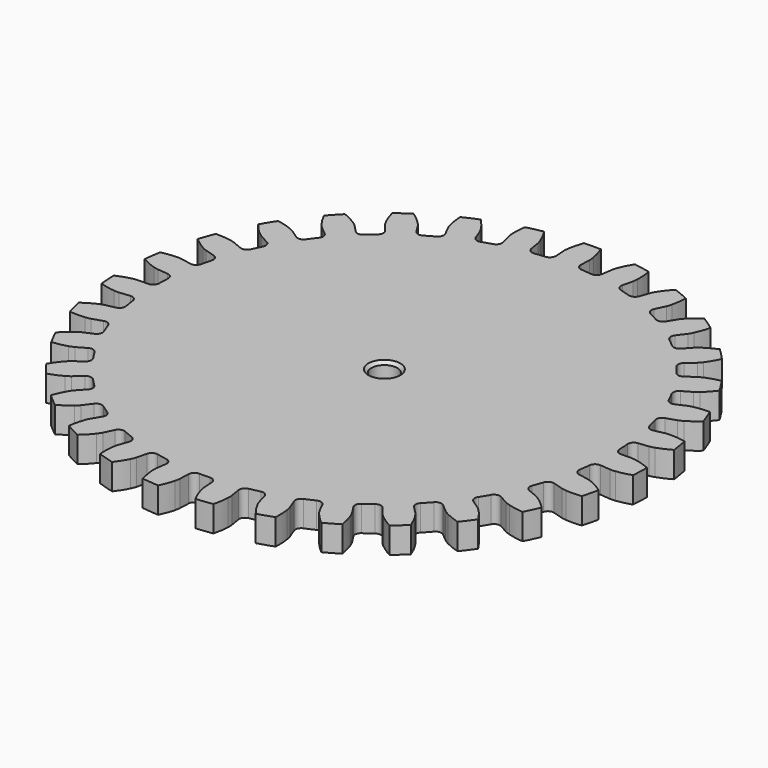
from build123d import *

# Parameters (mm, degrees)
PAD004_DEPTH            = 8.5
PAD005_DEPTH            = 8.5
SKETCH003_R             = 4.25
POCKET002_DEPTH         = 17.001
CHAMFER034_SIZE         = 1
CHAMFER039_SIZE         = 1
BODY002_PLACEMENT_ANGLE = 9.4


with BuildPart() as part:
    # InvoluteGear004 → Pad004 (new body)
    with BuildSketch(Plane.XY):
        with BuildLine():
            Line((76.650392, -4.025149), (80.096903, -4.204234))
            add(Edge.make_bspline(
                [(80.096903, -4.204234), (80.280207, -4.206292), (80.834512, -4.197297), (81.758681, -4.052769)],
                knots=[0, 0, 0, 0, 1, 1, 1, 1], degree=3))
            add(Edge.make_bspline(
                [(81.758681, -4.052769), (82.870647, -3.87775), (84.497646, -3.507453), (86.584037, -2.728125)],
                knots=[0, 0, 0, 0, 1, 1, 1, 1], degree=3))
            ThreePointArc((86.584037, -2.728125), (86.627007, 0), (86.584037, 2.728125))
            add(Edge.make_bspline(
                [(86.584037, 2.728125), (84.497646, 3.507453), (82.870647, 3.87775), (81.758681, 4.052769)],
                knots=[0, 0, 0, 0, 1, 1, 1, 1], degree=3))
            add(Edge.make_bspline(
                [(81.758681, 4.052769), (80.834512, 4.197297), (80.280207, 4.206292), (80.096903, 4.204234)],
                knots=[0, 0, 0, 0, 1, 1, 1, 1], degree=3))
            Line((80.096903, 4.204234), (76.650392, 4.025149))
            ThreePointArc((76.650392, 4.025149), (75.249057, 4.51101), (74.584451, 5.836942))
            ThreePointArc((74.584451, 5.836942), (74.428661, 7.568655), (74.23267, 9.29628))
            ThreePointArc((74.23267, 9.29628), (74.616764, 10.728855), (75.89161, 11.486856))
            Line((75.89161, 11.486856), (79.303621, 12.005215))
            add(Edge.make_bspline(
                [(79.303621, 12.005215), (79.483587, 12.040098), (80.024735, 12.160489), (80.900892, 12.488093)],
                knots=[0, 0, 0, 0, 1, 1, 1, 1], degree=3))
            add(Edge.make_bspline(
                [(80.900892, 12.488093), (81.954866, 12.883366), (83.47402, 13.573596), (85.360824, 14.756959)],
                knots=[0, 0, 0, 0, 1, 1, 1, 1], degree=3))
            ThreePointArc((85.360824, 14.756959), (84.853747, 17.437888), (84.262489, 20.101518))
            add(Edge.make_bspline(
                [(84.262489, 20.101518), (82.061929, 20.444906), (80.393695, 20.480111), (79.269259, 20.42771)],
                knots=[0, 0, 0, 0, 1, 1, 1, 1], degree=3))
            add(Edge.make_bspline(
                [(79.269259, 20.42771), (78.334915, 20.383246), (77.790147, 20.280476), (77.611009, 20.241561)],
                knots=[0, 0, 0, 0, 1, 1, 1, 1], degree=3))
            Line((77.611009, 20.241561), (74.271097, 19.372365))
            ThreePointArc((74.271097, 19.372365), (72.800645, 19.566193), (71.882735, 20.731199))
            ThreePointArc((71.882735, 20.731199), (71.381543, 22.396104), (70.841796, 24.048912))
            ThreePointArc((70.841796, 24.048912), (70.929652, 25.529479), (72.025817, 26.528588))
            Line((72.025817, 26.528588), (75.263639, 27.723169))
            add(Edge.make_bspline(
                [(75.263639, 27.723169), (75.4329, 27.793565), (75.938735, 28.020424), (76.731012, 28.517691)],
                knots=[0, 0, 0, 0, 1, 1, 1, 1], degree=3))
            add(Edge.make_bspline(
                [(76.731012, 28.517691), (77.683842, 29.117036), (79.032957, 30.09894), (80.642929, 31.63789)],
                knots=[0, 0, 0, 0, 1, 1, 1, 1], degree=3))
            ThreePointArc((80.642929, 31.63789), (79.606565, 34.161867), (78.491225, 36.651954))
            add(Edge.make_bspline(
                [(78.491225, 36.651954), (76.266587, 36.545343), (74.625415, 36.244014), (73.534545, 35.966338)],
                knots=[0, 0, 0, 0, 1, 1, 1, 1], degree=3))
            add(Edge.make_bspline(
                [(73.534545, 35.966338), (72.628278, 35.734702), (72.115348, 35.524375), (71.94771, 35.450196)],
                knots=[0, 0, 0, 0, 1, 1, 1, 1], degree=3))
            Line((71.94771, 35.450196), (68.851135, 33.926473))
            ThreePointArc((68.851135, 33.926473), (67.371766, 33.820334), (66.238131, 34.776718))
            ThreePointArc((66.238131, 34.776718), (65.412056, 36.306653), (64.55065, 37.816978))
            ThreePointArc((64.55065, 37.816978), (64.338672, 39.284923), (65.211279, 40.484237))
            Line((65.211279, 40.484237), (68.142355, 42.306133))
            add(Edge.make_bspline(
                [(68.142355, 42.306133), (68.29398, 42.40916), (68.743795, 42.733199), (69.419754, 43.379771)],
                knots=[0, 0, 0, 0, 1, 1, 1, 1], degree=3))
            add(Edge.make_bspline(
                [(69.419754, 43.379771), (70.232433, 44.158651), (71.356275, 45.39203), (72.623503, 47.223563)],
                knots=[0, 0, 0, 0, 1, 1, 1, 1], degree=3))
            ThreePointArc((72.623503, 47.223563), (71.10028, 49.487256), (69.506521, 51.701853))
            add(Edge.make_bspline(
                [(69.506521, 51.701853), (67.348882, 51.149609), (65.801962, 50.524082), (64.789318, 50.0325)],
                knots=[0, 0, 0, 0, 1, 1, 1, 1], degree=3))
            add(Edge.make_bspline(
                [(64.789318, 50.0325), (63.94823, 49.623176), (63.488138, 49.313902), (63.338864, 49.207496)],
                knots=[0, 0, 0, 0, 1, 1, 1, 1], degree=3))
            Line((63.338864, 49.207496), (60.612399, 47.091628))
            ThreePointArc((60.612399, 47.091628), (59.184679, 46.689866), (57.881731, 47.398474))
            ThreePointArc((57.881731, 47.398474), (56.764592, 48.730804), (55.616792, 50.036812))
            ThreePointArc((55.616792, 50.036812), (55.113658, 51.432038), (55.726983, 52.782456))
            Line((55.726983, 52.782456), (58.231315, 55.157079))
            add(Edge.make_bspline(
                [(58.231315, 55.157079), (58.359097, 55.288519), (58.734475, 55.696473), (59.266444, 56.465878)],
                knots=[0, 0, 0, 0, 1, 1, 1, 1], degree=3))
            add(Edge.make_bspline(
                [(59.266444, 56.465878), (59.9057, 57.392406), (60.75826, 58.826765), (61.630862, 60.875898)],
                knots=[0, 0, 0, 0, 1, 1, 1, 1], degree=3))
            ThreePointArc((61.630862, 60.875898), (59.683142, 62.78663), (57.676212, 64.635073))
            add(Edge.make_bspline(
                [(57.676212, 64.635073), (55.673906, 63.659804), (54.284569, 62.735689), (53.391608, 62.050326)],
                knots=[0, 0, 0, 0, 1, 1, 1, 1], degree=3))
            add(Edge.make_bspline(
                [(53.391608, 62.050326), (52.650134, 61.48007), (52.261717, 61.084511), (52.136918, 60.950236)],
                knots=[0, 0, 0, 0, 1, 1, 1, 1], degree=3))
            Line((52.136918, 60.950236), (49.892185, 58.328846))
            ThreePointArc((49.892185, 58.328846), (48.574564, 57.64791), (47.155646, 58.079731))
            ThreePointArc((47.155646, 58.079731), (45.793179, 59.15991), (44.405977, 60.208134))
            ThreePointArc((44.405977, 60.208134), (43.632285, 61.473519), (43.961218, 62.919756))
            Line((43.961218, 62.919756), (45.936278, 65.749888))
            add(Edge.make_bspline(
                [(45.936278, 65.749888), (46.034986, 65.90436), (46.32056, 66.379525), (46.686759, 67.240266)],
                knots=[0, 0, 0, 0, 1, 1, 1, 1], degree=3))
            add(Edge.make_bspline(
                [(46.686759, 67.240266), (47.126421, 68.276509), (47.672794, 69.853126), (48.115047, 72.035966)],
                knots=[0, 0, 0, 0, 1, 1, 1, 1], degree=3))
            ThreePointArc((48.115047, 72.035966), (45.822569, 73.515512), (43.484632, 74.922126))
            add(Edge.make_bspline(
                [(43.484632, 74.922126), (41.719634, 73.563759), (40.54476, 72.378889), (39.80804, 71.527804)],
                knots=[0, 0, 0, 0, 1, 1, 1, 1], degree=3))
            add(Edge.make_bspline(
                [(39.80804, 71.527804), (39.196536, 70.819964), (38.895695, 70.354314), (38.80048, 70.197665)],
                knots=[0, 0, 0, 0, 1, 1, 1, 1], degree=3))
            Line((38.80048, 70.197665), (37.129379, 67.178074))
            ThreePointArc((37.129379, 67.178074), (35.975801, 66.245842), (34.499003, 66.383198))
            ThreePointArc((34.499003, 66.383198), (32.946987, 67.167002), (31.377176, 67.914527))
            ThreePointArc((31.377176, 67.914527), (30.364602, 68.998267), (30.395676, 70.481113))
            Line((30.395676, 70.481113), (31.760605, 73.650889))
            add(Edge.make_bspline(
                [(31.760605, 73.650889), (31.826197, 73.822068), (32.010275, 74.344993), (32.195712, 75.261829)],
                knots=[0, 0, 0, 0, 1, 1, 1, 1], degree=3))
            add(Edge.make_bspline(
                [(32.195712, 75.261829), (32.41778, 76.365363), (32.635598, 78.019691), (32.629396, 80.246873)],
                knots=[0, 0, 0, 0, 1, 1, 1, 1], degree=3))
            ThreePointArc((32.629396, 80.246873), (30.086014, 81.23466), (27.512786, 82.141857))
            add(Edge.make_bspline(
                [(27.512786, 82.141857), (26.057355, 80.456005), (25.145043, 79.058889), (24.594726, 78.076925)],
                knots=[0, 0, 0, 0, 1, 1, 1, 1], degree=3))
            add(Edge.make_bspline(
                [(24.594726, 78.076925), (24.138226, 77.260479), (23.937278, 76.743803), (23.875546, 76.571194)],
                knots=[0, 0, 0, 0, 1, 1, 1, 1], degree=3))
            Line((23.875546, 76.571194), (22.846491, 73.277024))
            ThreePointArc((22.846491, 73.277024), (21.904184, 72.131661), (20.429967, 71.968928))
            ThreePointArc((20.429967, 71.968928), (18.751943, 72.424269), (17.063789, 72.840492))
            ThreePointArc((17.063789, 72.840492), (15.853788, 73.698218), (15.585731, 75.156965))
            Line((15.585731, 75.156965), (16.284648, 78.536614))
            add(Edge.make_bspline(
                [(16.284648, 78.536614), (16.31444, 78.717493), (16.389486, 79.266767), (16.386569, 80.202164)],
                knots=[0, 0, 0, 0, 1, 1, 1, 1], degree=3))
            add(Edge.make_bspline(
                [(16.386569, 80.202164), (16.381951, 81.327811), (16.262297, 82.992121), (15.807893, 85.172464)],
                knots=[0, 0, 0, 0, 1, 1, 1, 1], degree=3))
            ThreePointArc((15.807893, 85.172464), (13.117735, 85.628052), (10.414563, 85.998692))
            add(Edge.make_bspline(
                [(10.414563, 85.998692), (9.328284, 84.054373), (8.715885, 82.502209), (8.374501, 81.429568)],
                knots=[0, 0, 0, 0, 1, 1, 1, 1], degree=3))
            add(Edge.make_bspline(
                [(8.374501, 81.429568), (8.091695, 80.537942), (7.998867, 79.991392), (7.973144, 79.809889)],
                knots=[0, 0, 0, 0, 1, 1, 1, 1], degree=3))
            Line((7.973144, 79.809889), (7.628266, 76.376004))
            ThreePointArc((7.628266, 76.376004), (6.935808, 75.064402), (5.524526, 74.608242))
            ThreePointArc((5.524526, 74.608242), (3.789191, 74.716479), (2.051809, 74.784358))
            ThreePointArc((2.051809, 74.784358), (0.693917, 75.380955), (0.137704, 76.755882))
            Line((0.137704, 76.755882), (0.141996, 80.20704))
            add(Edge.make_bspline(
                [(0.141996, 80.20704), (0.134768, 80.390214), (0.097709, 80.943351), (-0.093442, 81.859013)],
                knots=[0, 0, 0, 0, 1, 1, 1, 1], degree=3))
            add(Edge.make_bspline(
                [(-0.093442, 81.859013), (-0.324556, 82.960688), (-0.776784, 84.566844), (-1.660786, 86.611084)],
                knots=[0, 0, 0, 0, 1, 1, 1, 1], degree=3))
            ThreePointArc((-1.660786, 86.611084), (-4.387586, 86.515822), (-7.110033, 86.33473))
            add(Edge.make_bspline(
                [(-7.110033, 86.33473), (-7.782687, 84.211545), (-8.070103, 82.567879), (-8.188577, 81.448475)],
                knots=[0, 0, 0, 0, 1, 1, 1, 1], degree=3))
            add(Edge.make_bspline(
                [(-8.188577, 81.448475), (-8.286111, 80.518172), (-8.267019, 79.964123), (-8.25568, 79.781158)],
                knots=[0, 0, 0, 0, 1, 1, 1, 1], degree=3))
            Line((-8.25568, 79.781158), (-7.902262, 76.348141))
            ThreePointArc((-7.902262, 76.348141), (-8.316522, 74.923997), (-9.60709, 74.193086))
            ThreePointArc((-9.60709, 74.193086), (-11.328691, 73.949787), (-13.044172, 73.666544))
            ThreePointArc((-13.044172, 73.666544), (-14.494362, 73.977587), (-15.31596, 75.212404))
            Line((-15.31596, 75.212404), (-16.006469, 78.593781))
            add(Edge.make_bspline(
                [(-16.006469, 78.593781), (-16.050422, 78.77175), (-16.198068, 79.306105), (-16.569627, 80.164545)],
                knots=[0, 0, 0, 0, 1, 1, 1, 1], degree=3))
            add(Edge.make_bspline(
                [(-16.569627, 80.164545), (-17.017776, 81.197146), (-17.784064, 82.67939), (-19.061473, 84.503836)],
                knots=[0, 0, 0, 0, 1, 1, 1, 1], degree=3))
            ThreePointArc((-19.061473, 84.503836), (-21.713279, 83.861623), (-24.343543, 83.136214))
            add(Edge.make_bspline(
                [(-24.343543, 83.136214), (-24.575034, 80.921086), (-24.525699, 79.25321), (-24.416414, 78.132871)],
                knots=[0, 0, 0, 0, 1, 1, 1, 1], degree=3))
            add(Edge.make_bspline(
                [(-24.416414, 78.132871), (-24.324682, 77.201978), (-24.194452, 76.663114), (-24.146514, 76.486177)],
                knots=[0, 0, 0, 0, 1, 1, 1, 1], degree=3))
            Line((-24.146514, 76.486177), (-23.10927, 73.194576))
            ThreePointArc((-23.10927, 73.194576), (-23.228372, 71.716195), (-24.345391, 70.740456))
            ThreePointArc((-24.345391, 70.740456), (-25.982774, 70.155581), (-27.606123, 69.532813))
            ThreePointArc((-27.606123, 69.532813), (-29.08924, 69.545568), (-30.142587, 70.589722))
            Line((-30.142587, 70.589722), (-31.499627, 73.762883))
            add(Edge.make_bspline(
                [(-31.499627, 73.762883), (-31.578506, 73.928361), (-31.830694, 74.422057), (-32.36745, 75.188131)],
                knots=[0, 0, 0, 0, 1, 1, 1, 1], degree=3))
            add(Edge.make_bspline(
                [(-32.36745, 75.188131), (-33.014287, 76.109382), (-34.063262, 77.407032), (-35.681781, 78.936992)],
                knots=[0, 0, 0, 0, 1, 1, 1, 1], degree=3))
            ThreePointArc((-35.681781, 78.936992), (-38.150027, 77.77412), (-40.580426, 76.534091))
            add(Edge.make_bspline(
                [(-40.580426, 76.534091), (-40.361277, 74.317709), (-39.97721, 72.693905), (-39.644639, 71.618499)],
                knots=[0, 0, 0, 0, 1, 1, 1, 1], degree=3))
            add(Edge.make_bspline(
                [(-39.644639, 71.618499), (-39.367399, 70.725127), (-39.131362, 70.223508), (-39.048788, 70.059843)],
                knots=[0, 0, 0, 0, 1, 1, 1, 1], degree=3))
            Line((-39.048788, 70.059843), (-37.370182, 67.044417))
            ThreePointArc((-37.370182, 67.044417), (-37.18925, 65.572323), (-38.086988, 64.391703))
            ThreePointArc((-38.086988, 64.391703), (-39.57312, 63.489199), (-41.037877, 62.552401))
            ThreePointArc((-41.037877, 62.552401), (-42.493201, 62.266345), (-43.735173, 63.077088))
            Line((-43.735173, 63.077088), (-45.703187, 65.912124))
            add(Edge.make_bspline(
                [(-45.703187, 65.912124), (-45.813762, 66.058337), (-46.160168, 66.491162), (-46.840146, 67.133505)],
                knots=[0, 0, 0, 0, 1, 1, 1, 1], degree=3))
            add(Edge.make_bspline(
                [(-46.840146, 67.133505), (-47.659188, 67.905691), (-48.947906, 68.965622), (-50.841272, 70.138457)],
                knots=[0, 0, 0, 0, 1, 1, 1, 1], degree=3))
            ThreePointArc((-50.841272, 70.138457), (-53.024909, 68.502535), (-55.155942, 66.798654))
            add(Edge.make_bspline(
                [(-55.155942, 66.798654), (-54.495124, 64.671755), (-53.79205, 63.158503), (-53.249809, 62.172057)],
                knots=[0, 0, 0, 0, 1, 1, 1, 1], degree=3))
            add(Edge.make_bspline(
                [(-53.249809, 62.172057), (-52.798409, 61.35278), (-52.466229, 60.908944), (-52.3524, 60.765251)],
                knots=[0, 0, 0, 0, 1, 1, 1, 1], degree=3))
            Line((-52.3524, 60.765251), (-50.101154, 58.149452))
            ThreePointArc((-50.101154, 58.149452), (-49.627595, 56.743913), (-50.2693, 55.406747))
            ThreePointArc((-50.2693, 55.406747), (-51.543338, 54.22356), (-52.789535, 53.011086))
            ThreePointArc((-52.789535, 53.011086), (-54.157486, 52.43793), (-55.537236, 52.982071))
            Line((-55.537236, 52.982071), (-58.035653, 55.362915))
            add(Edge.make_bspline(
                [(-58.035653, 55.362915), (-58.173397, 55.483876), (-58.599839, 55.83811), (-59.395201, 56.330426)],
                knots=[0, 0, 0, 0, 1, 1, 1, 1], degree=3))
            add(Edge.make_bspline(
                [(-59.395201, 56.330426), (-60.352917, 56.921934), (-61.828617, 57.70075), (-63.919316, 58.468446)],
                knots=[0, 0, 0, 0, 1, 1, 1, 1], degree=3))
            ThreePointArc((-63.919316, 58.468446), (-65.728945, 56.426448), (-67.473367, 54.328472))
            add(Edge.make_bspline(
                [(-67.473367, 54.328472), (-66.397934, 52.378133), (-65.404637, 51.037385), (-64.674926, 50.180283)],
                knots=[0, 0, 0, 0, 1, 1, 1, 1], degree=3))
            add(Edge.make_bspline(
                [(-64.674926, 50.180283), (-64.067847, 49.468644), (-63.653122, 49.10076), (-63.512698, 48.982922)],
                knots=[0, 0, 0, 0, 1, 1, 1, 1], degree=3))
            Line((-63.512698, 48.982922), (-60.780979, 46.873841))
            ThreePointArc((-60.780979, 46.873841), (-60.034181, 45.5924), (-60.393581, 44.153432))
            ThreePointArc((-60.393581, 44.153432), (-61.403365, 42.738003), (-62.379983, 41.29949))
            ThreePointArc((-62.379983, 41.29949), (-63.604557, 40.462701), (-65.065598, 40.717961))
            Line((-65.065598, 40.717961), (-67.992133, 42.547142))
            add(Edge.make_bspline(
                [(-67.992133, 42.547142), (-68.151406, 42.6379), (-68.640426, 42.89904), (-69.518609, 43.221173)],
                knots=[0, 0, 0, 0, 1, 1, 1, 1], degree=3))
            add(Edge.make_bspline(
                [(-69.518609, 43.221173), (-70.57579, 43.607786), (-72.178057, 44.073603), (-74.380495, 44.40473)],
                knots=[0, 0, 0, 0, 1, 1, 1, 1], degree=3))
            ThreePointArc((-74.380495, 44.40473), (-75.74203, 42.040256), (-77.028424, 39.634076))
            add(Edge.make_bspline(
                [(-77.028424, 39.634076), (-75.582405, 37.940144), (-74.33955, 36.82679), (-73.452243, 36.134123)],
                knots=[0, 0, 0, 0, 1, 1, 1, 1], degree=3))
            add(Edge.make_bspline(
                [(-73.452243, 36.134123), (-72.714339, 35.559255), (-72.23405, 35.282385), (-72.072779, 35.195226)],
                knots=[0, 0, 0, 0, 1, 1, 1, 1], degree=3))
            Line((-72.072779, 35.195226), (-68.972423, 33.67921))
            ThreePointArc((-68.972423, 33.67921), (-67.98296, 32.574329), (-68.045341, 31.09247))
            ThreePointArc((-68.045341, 31.09247), (-68.749531, 29.502747), (-69.416587, 27.897089))
            ThreePointArc((-69.416587, 27.897089), (-70.44765, 26.830924), (-71.930166, 26.786854))
            Line((-71.930166, 26.786854), (-75.165007, 27.989484))
            add(Edge.make_bspline(
                [(-75.165007, 27.989484), (-75.339289, 28.046322), (-75.870865, 28.203678), (-76.795917, 28.34244)],
                knots=[0, 0, 0, 0, 1, 1, 1, 1], degree=3))
            add(Edge.make_bspline(
                [(-76.795917, 28.34244), (-77.909282, 28.50833), (-79.572519, 28.642078), (-81.796529, 28.523079)],
                knots=[0, 0, 0, 0, 1, 1, 1, 1], degree=3))
            ThreePointArc((-81.796529, 28.523079), (-82.654228, 25.932931), (-83.429929, 23.317057))
            add(Edge.make_bspline(
                [(-83.429929, 23.317057), (-81.672523, 21.948881), (-80.230993, 21.108502), (-79.222417, 20.608628)],
                knots=[0, 0, 0, 0, 1, 1, 1, 1], degree=3))
            add(Edge.make_bspline(
                [(-79.222417, 20.608628), (-78.383897, 20.194066), (-77.857706, 20.019545), (-77.682192, 19.966634)],
                knots=[0, 0, 0, 0, 1, 1, 1, 1], degree=3))
            Line((-77.682192, 19.966634), (-74.340129, 19.105748))
            ThreePointArc((-74.340129, 19.105748), (-73.14851, 18.222662), (-72.911317, 16.758579))
            ThreePointArc((-72.911317, 16.758579), (-73.281084, 15.059646), (-73.611268, 13.352578))
            ThreePointArc((-73.611268, 13.352578), (-74.406608, 12.100686), (-75.849906, 11.759089))
            Line((-75.849906, 11.759089), (-79.260616, 12.285933))
            add(Edge.make_bspline(
                [(-79.260616, 12.285933), (-79.442772, 12.306525), (-79.995143, 12.353654), (-80.929192, 12.303364)],
                knots=[0, 0, 0, 0, 1, 1, 1, 1], degree=3))
            add(Edge.make_bspline(
                [(-80.929192, 12.303364), (-82.053159, 12.241739), (-83.709273, 12.037943), (-85.863802, 11.473689)],
                knots=[0, 0, 0, 0, 1, 1, 1, 1], degree=3))
            ThreePointArc((-85.863802, 11.473689), (-86.182552, 8.763909), (-86.415802, 6.045434))
            add(Edge.make_bspline(
                [(-86.415802, 6.045434), (-84.418959, 5.059028), (-82.83777, 4.52603), (-81.749215, 4.239413)],
                knots=[0, 0, 0, 0, 1, 1, 1, 1], degree=3))
            add(Edge.make_bspline(
                [(-81.749215, 4.239413), (-80.84441, 4.00213), (-80.293859, 3.937103), (-80.111287, 3.920606)],
                knots=[0, 0, 0, 0, 1, 1, 1, 1], degree=3))
            Line((-80.111287, 3.920606), (-76.664341, 3.750094))
            ThreePointArc((-76.664341, 3.750094), (-75.31935, 3.124956), (-74.792295, 1.73859))
            ThreePointArc((-74.792295, 1.73859), (-74.8125, 0), (-74.792295, -1.73859))
            ThreePointArc((-74.792295, -1.73859), (-75.31935, -3.124956), (-76.664341, -3.750094))
            Line((-76.664341, -3.750094), (-80.111287, -3.920606))
            add(Edge.make_bspline(
                [(-80.111287, -3.920606), (-80.293859, -3.937103), (-80.84441, -4.00213), (-81.749215, -4.239413)],
                knots=[0, 0, 0, 0, 1, 1, 1, 1], degree=3))
            add(Edge.make_bspline(
                [(-81.749215, -4.239413), (-82.83777, -4.52603), (-84.418959, -5.059028), (-86.415802, -6.045434)],
                knots=[0, 0, 0, 0, 1, 1, 1, 1], degree=3))
            ThreePointArc((-86.415802, -6.045434), (-86.182552, -8.763909), (-85.863802, -11.473689))
            add(Edge.make_bspline(
                [(-85.863802, -11.473689), (-83.709273, -12.037943), (-82.053159, -12.241739), (-80.929192, -12.303364)],
                knots=[0, 0, 0, 0, 1, 1, 1, 1], degree=3))
            add(Edge.make_bspline(
                [(-80.929192, -12.303364), (-79.995143, -12.353654), (-79.442772, -12.306525), (-79.260616, -12.285933)],
                knots=[0, 0, 0, 0, 1, 1, 1, 1], degree=3))
            Line((-79.260616, -12.285933), (-75.849906, -11.759089))
            ThreePointArc((-75.849906, -11.759089), (-74.406608, -12.100686), (-73.611268, -13.352578))
            ThreePointArc((-73.611268, -13.352578), (-73.281084, -15.059646), (-72.911317, -16.758579))
            ThreePointArc((-72.911317, -16.758579), (-73.14851, -18.222662), (-74.340129, -19.105748))
            Line((-74.340129, -19.105748), (-77.682192, -19.966634))
            add(Edge.make_bspline(
                [(-77.682192, -19.966634), (-77.857706, -20.019545), (-78.383897, -20.194066), (-79.222417, -20.608628)],
                knots=[0, 0, 0, 0, 1, 1, 1, 1], degree=3))
            add(Edge.make_bspline(
                [(-79.222417, -20.608628), (-80.230993, -21.108502), (-81.672523, -21.948881), (-83.429929, -23.317057)],
                knots=[0, 0, 0, 0, 1, 1, 1, 1], degree=3))
            ThreePointArc((-83.429929, -23.317057), (-82.654228, -25.932931), (-81.796529, -28.523079))
            add(Edge.make_bspline(
                [(-81.796529, -28.523079), (-79.572519, -28.642078), (-77.909282, -28.50833), (-76.795917, -28.34244)],
                knots=[0, 0, 0, 0, 1, 1, 1, 1], degree=3))
            add(Edge.make_bspline(
                [(-76.795917, -28.34244), (-75.870865, -28.203678), (-75.339289, -28.046322), (-75.165007, -27.989484)],
                knots=[0, 0, 0, 0, 1, 1, 1, 1], degree=3))
            Line((-75.165007, -27.989484), (-71.930166, -26.786854))
            ThreePointArc((-71.930166, -26.786854), (-70.44765, -26.830924), (-69.416587, -27.897089))
            ThreePointArc((-69.416587, -27.897089), (-68.749531, -29.502747), (-68.045341, -31.09247))
            ThreePointArc((-68.045341, -31.09247), (-67.98296, -32.574329), (-68.972423, -33.67921))
            Line((-68.972423, -33.67921), (-72.072779, -35.195226))
            add(Edge.make_bspline(
                [(-72.072779, -35.195226), (-72.23405, -35.282385), (-72.714339, -35.559255), (-73.452243, -36.134123)],
                knots=[0, 0, 0, 0, 1, 1, 1, 1], degree=3))
            add(Edge.make_bspline(
                [(-73.452243, -36.134123), (-74.33955, -36.82679), (-75.582405, -37.940144), (-77.028424, -39.634076)],
                knots=[0, 0, 0, 0, 1, 1, 1, 1], degree=3))
            ThreePointArc((-77.028424, -39.634076), (-75.74203, -42.040256), (-74.380495, -44.40473))
            add(Edge.make_bspline(
                [(-74.380495, -44.40473), (-72.178057, -44.073603), (-70.57579, -43.607786), (-69.518609, -43.221173)],
                knots=[0, 0, 0, 0, 1, 1, 1, 1], degree=3))
            add(Edge.make_bspline(
                [(-69.518609, -43.221173), (-68.640426, -42.89904), (-68.151406, -42.6379), (-67.992133, -42.547142)],
                knots=[0, 0, 0, 0, 1, 1, 1, 1], degree=3))
            Line((-67.992133, -42.547142), (-65.065598, -40.717961))
            ThreePointArc((-65.065598, -40.717961), (-63.604557, -40.462701), (-62.379983, -41.29949))
            ThreePointArc((-62.379983, -41.29949), (-61.403365, -42.738003), (-60.393581, -44.153432))
            ThreePointArc((-60.393581, -44.153432), (-60.034181, -45.5924), (-60.780979, -46.873841))
            Line((-60.780979, -46.873841), (-63.512698, -48.982922))
            add(Edge.make_bspline(
                [(-63.512698, -48.982922), (-63.653122, -49.10076), (-64.067847, -49.468644), (-64.674926, -50.180283)],
                knots=[0, 0, 0, 0, 1, 1, 1, 1], degree=3))
            add(Edge.make_bspline(
                [(-64.674926, -50.180283), (-65.404637, -51.037385), (-66.397934, -52.378133), (-67.473367, -54.328472)],
                knots=[0, 0, 0, 0, 1, 1, 1, 1], degree=3))
            ThreePointArc((-67.473367, -54.328472), (-65.728945, -56.426448), (-63.919316, -58.468446))
            add(Edge.make_bspline(
                [(-63.919316, -58.468446), (-61.828617, -57.70075), (-60.352917, -56.921934), (-59.395201, -56.330426)],
                knots=[0, 0, 0, 0, 1, 1, 1, 1], degree=3))
            add(Edge.make_bspline(
                [(-59.395201, -56.330426), (-58.599839, -55.83811), (-58.173397, -55.483876), (-58.035653, -55.362915)],
                knots=[0, 0, 0, 0, 1, 1, 1, 1], degree=3))
            Line((-58.035653, -55.362915), (-55.537236, -52.982071))
            ThreePointArc((-55.537236, -52.982071), (-54.157486, -52.43793), (-52.789535, -53.011086))
            ThreePointArc((-52.789535, -53.011086), (-51.543338, -54.22356), (-50.2693, -55.406747))
            ThreePointArc((-50.2693, -55.406747), (-49.627595, -56.743913), (-50.101154, -58.149452))
            Line((-50.101154, -58.149452), (-52.3524, -60.765251))
            add(Edge.make_bspline(
                [(-52.3524, -60.765251), (-52.466229, -60.908944), (-52.798409, -61.35278), (-53.249809, -62.172057)],
                knots=[0, 0, 0, 0, 1, 1, 1, 1], degree=3))
            add(Edge.make_bspline(
                [(-53.249809, -62.172057), (-53.79205, -63.158503), (-54.495124, -64.671755), (-55.155942, -66.798654)],
                knots=[0, 0, 0, 0, 1, 1, 1, 1], degree=3))
            ThreePointArc((-55.155942, -66.798654), (-53.024909, -68.502535), (-50.841272, -70.138457))
            add(Edge.make_bspline(
                [(-50.841272, -70.138457), (-48.947906, -68.965622), (-47.659188, -67.905691), (-46.840146, -67.133505)],
                knots=[0, 0, 0, 0, 1, 1, 1, 1], degree=3))
            add(Edge.make_bspline(
                [(-46.840146, -67.133505), (-46.160168, -66.491162), (-45.813762, -66.058337), (-45.703187, -65.912124)],
                knots=[0, 0, 0, 0, 1, 1, 1, 1], degree=3))
            Line((-45.703187, -65.912124), (-43.735173, -63.077088))
            ThreePointArc((-43.735173, -63.077088), (-42.493201, -62.266345), (-41.037877, -62.552401))
            ThreePointArc((-41.037877, -62.552401), (-39.57312, -63.489199), (-38.086988, -64.391703))
            ThreePointArc((-38.086988, -64.391703), (-37.18925, -65.572323), (-37.370182, -67.044417))
            Line((-37.370182, -67.044417), (-39.048788, -70.059843))
            add(Edge.make_bspline(
                [(-39.048788, -70.059843), (-39.131362, -70.223508), (-39.367399, -70.725127), (-39.644639, -71.618499)],
                knots=[0, 0, 0, 0, 1, 1, 1, 1], degree=3))
            add(Edge.make_bspline(
                [(-39.644639, -71.618499), (-39.97721, -72.693905), (-40.361277, -74.317709), (-40.580426, -76.534091)],
                knots=[0, 0, 0, 0, 1, 1, 1, 1], degree=3))
            ThreePointArc((-40.580426, -76.534091), (-38.150027, -77.77412), (-35.681781, -78.936992))
            add(Edge.make_bspline(
                [(-35.681781, -78.936992), (-34.063262, -77.407032), (-33.014287, -76.109382), (-32.36745, -75.188131)],
                knots=[0, 0, 0, 0, 1, 1, 1, 1], degree=3))
            add(Edge.make_bspline(
                [(-32.36745, -75.188131), (-31.830694, -74.422057), (-31.578506, -73.928361), (-31.499627, -73.762883)],
                knots=[0, 0, 0, 0, 1, 1, 1, 1], degree=3))
            Line((-31.499627, -73.762883), (-30.142587, -70.589722))
            ThreePointArc((-30.142587, -70.589722), (-29.08924, -69.545568), (-27.606123, -69.532813))
            ThreePointArc((-27.606123, -69.532813), (-25.982774, -70.155581), (-24.345391, -70.740456))
            ThreePointArc((-24.345391, -70.740456), (-23.228372, -71.716195), (-23.10927, -73.194576))
            Line((-23.10927, -73.194576), (-24.146514, -76.486177))
            add(Edge.make_bspline(
                [(-24.146514, -76.486177), (-24.194452, -76.663114), (-24.324682, -77.201978), (-24.416414, -78.132871)],
                knots=[0, 0, 0, 0, 1, 1, 1, 1], degree=3))
            add(Edge.make_bspline(
                [(-24.416414, -78.132871), (-24.525699, -79.25321), (-24.575034, -80.921086), (-24.343543, -83.136214)],
                knots=[0, 0, 0, 0, 1, 1, 1, 1], degree=3))
            ThreePointArc((-24.343543, -83.136214), (-21.713279, -83.861623), (-19.061473, -84.503836))
            add(Edge.make_bspline(
                [(-19.061473, -84.503836), (-17.784064, -82.67939), (-17.017776, -81.197146), (-16.569627, -80.164545)],
                knots=[0, 0, 0, 0, 1, 1, 1, 1], degree=3))
            add(Edge.make_bspline(
                [(-16.569627, -80.164545), (-16.198068, -79.306105), (-16.050422, -78.77175), (-16.006469, -78.593781)],
                knots=[0, 0, 0, 0, 1, 1, 1, 1], degree=3))
            Line((-16.006469, -78.593781), (-15.31596, -75.212404))
            ThreePointArc((-15.31596, -75.212404), (-14.494362, -73.977587), (-13.044172, -73.666544))
            ThreePointArc((-13.044172, -73.666544), (-11.328691, -73.949787), (-9.60709, -74.193086))
            ThreePointArc((-9.60709, -74.193086), (-8.316522, -74.923997), (-7.902262, -76.348141))
            Line((-7.902262, -76.348141), (-8.25568, -79.781158))
            add(Edge.make_bspline(
                [(-8.25568, -79.781158), (-8.267019, -79.964123), (-8.286111, -80.518172), (-8.188577, -81.448475)],
                knots=[0, 0, 0, 0, 1, 1, 1, 1], degree=3))
            add(Edge.make_bspline(
                [(-8.188577, -81.448475), (-8.070103, -82.567879), (-7.782687, -84.211545), (-7.110033, -86.33473)],
                knots=[0, 0, 0, 0, 1, 1, 1, 1], degree=3))
            ThreePointArc((-7.110033, -86.33473), (-4.387586, -86.515822), (-1.660786, -86.611084))
            add(Edge.make_bspline(
                [(-1.660786, -86.611084), (-0.776784, -84.566844), (-0.324556, -82.960688), (-0.093442, -81.859013)],
                knots=[0, 0, 0, 0, 1, 1, 1, 1], degree=3))
            add(Edge.make_bspline(
                [(-0.093442, -81.859013), (0.097709, -80.943351), (0.134768, -80.390214), (0.141996, -80.20704)],
                knots=[0, 0, 0, 0, 1, 1, 1, 1], degree=3))
            Line((0.141996, -80.20704), (0.137704, -76.755882))
            ThreePointArc((0.137704, -76.755882), (0.693917, -75.380955), (2.051809, -74.784358))
            ThreePointArc((2.051809, -74.784358), (3.789191, -74.716479), (5.524526, -74.608242))
            ThreePointArc((5.524526, -74.608242), (6.935808, -75.064402), (7.628266, -76.376004))
            Line((7.628266, -76.376004), (7.973144, -79.809889))
            add(Edge.make_bspline(
                [(7.973144, -79.809889), (7.998867, -79.991392), (8.091695, -80.537942), (8.374501, -81.429568)],
                knots=[0, 0, 0, 0, 1, 1, 1, 1], degree=3))
            add(Edge.make_bspline(
                [(8.374501, -81.429568), (8.715885, -82.502209), (9.328284, -84.054373), (10.414563, -85.998692)],
                knots=[0, 0, 0, 0, 1, 1, 1, 1], degree=3))
            ThreePointArc((10.414563, -85.998692), (13.117735, -85.628052), (15.807893, -85.172464))
            add(Edge.make_bspline(
                [(15.807893, -85.172464), (16.262297, -82.992121), (16.381951, -81.327811), (16.386569, -80.202164)],
                knots=[0, 0, 0, 0, 1, 1, 1, 1], degree=3))
            add(Edge.make_bspline(
                [(16.386569, -80.202164), (16.389486, -79.266767), (16.31444, -78.717493), (16.284648, -78.536614)],
                knots=[0, 0, 0, 0, 1, 1, 1, 1], degree=3))
            Line((16.284648, -78.536614), (15.585731, -75.156965))
            ThreePointArc((15.585731, -75.156965), (15.853788, -73.698218), (17.063789, -72.840492))
            ThreePointArc((17.063789, -72.840492), (18.751943, -72.424269), (20.429967, -71.968928))
            ThreePointArc((20.429967, -71.968928), (21.904184, -72.131661), (22.846491, -73.277024))
            Line((22.846491, -73.277024), (23.875546, -76.571194))
            add(Edge.make_bspline(
                [(23.875546, -76.571194), (23.937278, -76.743803), (24.138226, -77.260479), (24.594726, -78.076925)],
                knots=[0, 0, 0, 0, 1, 1, 1, 1], degree=3))
            add(Edge.make_bspline(
                [(24.594726, -78.076925), (25.145043, -79.058889), (26.057355, -80.456005), (27.512786, -82.141857)],
                knots=[0, 0, 0, 0, 1, 1, 1, 1], degree=3))
            ThreePointArc((27.512786, -82.141857), (30.086014, -81.23466), (32.629396, -80.246873))
            add(Edge.make_bspline(
                [(32.629396, -80.246873), (32.635598, -78.019691), (32.41778, -76.365363), (32.195712, -75.261829)],
                knots=[0, 0, 0, 0, 1, 1, 1, 1], degree=3))
            add(Edge.make_bspline(
                [(32.195712, -75.261829), (32.010275, -74.344993), (31.826197, -73.822068), (31.760605, -73.650889)],
                knots=[0, 0, 0, 0, 1, 1, 1, 1], degree=3))
            Line((31.760605, -73.650889), (30.395676, -70.481113))
            ThreePointArc((30.395676, -70.481113), (30.364602, -68.998267), (31.377176, -67.914527))
            ThreePointArc((31.377176, -67.914527), (32.946987, -67.167002), (34.499003, -66.383198))
            ThreePointArc((34.499003, -66.383198), (35.975801, -66.245842), (37.129379, -67.178074))
            Line((37.129379, -67.178074), (38.80048, -70.197665))
            add(Edge.make_bspline(
                [(38.80048, -70.197665), (38.895695, -70.354314), (39.196536, -70.819964), (39.80804, -71.527804)],
                knots=[0, 0, 0, 0, 1, 1, 1, 1], degree=3))
            add(Edge.make_bspline(
                [(39.80804, -71.527804), (40.54476, -72.378889), (41.719634, -73.563759), (43.484632, -74.922126)],
                knots=[0, 0, 0, 0, 1, 1, 1, 1], degree=3))
            ThreePointArc((43.484632, -74.922126), (45.822569, -73.515512), (48.115047, -72.035966))
            add(Edge.make_bspline(
                [(48.115047, -72.035966), (47.672794, -69.853126), (47.126421, -68.276509), (46.686759, -67.240266)],
                knots=[0, 0, 0, 0, 1, 1, 1, 1], degree=3))
            add(Edge.make_bspline(
                [(46.686759, -67.240266), (46.32056, -66.379525), (46.034986, -65.90436), (45.936278, -65.749888)],
                knots=[0, 0, 0, 0, 1, 1, 1, 1], degree=3))
            Line((45.936278, -65.749888), (43.961218, -62.919756))
            ThreePointArc((43.961218, -62.919756), (43.632285, -61.473519), (44.405977, -60.208134))
            ThreePointArc((44.405977, -60.208134), (45.793179, -59.15991), (47.155646, -58.079731))
            ThreePointArc((47.155646, -58.079731), (48.574564, -57.64791), (49.892185, -58.328846))
            Line((49.892185, -58.328846), (52.136918, -60.950236))
            add(Edge.make_bspline(
                [(52.136918, -60.950236), (52.261717, -61.084511), (52.650134, -61.48007), (53.391608, -62.050326)],
                knots=[0, 0, 0, 0, 1, 1, 1, 1], degree=3))
            add(Edge.make_bspline(
                [(53.391608, -62.050326), (54.284569, -62.735689), (55.673906, -63.659804), (57.676212, -64.635073)],
                knots=[0, 0, 0, 0, 1, 1, 1, 1], degree=3))
            ThreePointArc((57.676212, -64.635073), (59.683142, -62.78663), (61.630862, -60.875898))
            add(Edge.make_bspline(
                [(61.630862, -60.875898), (60.75826, -58.826765), (59.9057, -57.392406), (59.266444, -56.465878)],
                knots=[0, 0, 0, 0, 1, 1, 1, 1], degree=3))
            add(Edge.make_bspline(
                [(59.266444, -56.465878), (58.734475, -55.696473), (58.359097, -55.288519), (58.231315, -55.157079)],
                knots=[0, 0, 0, 0, 1, 1, 1, 1], degree=3))
            Line((58.231315, -55.157079), (55.726983, -52.782456))
            ThreePointArc((55.726983, -52.782456), (55.113658, -51.432038), (55.616792, -50.036812))
            ThreePointArc((55.616792, -50.036812), (56.764592, -48.730804), (57.881731, -47.398474))
            ThreePointArc((57.881731, -47.398474), (59.184679, -46.689866), (60.612399, -47.091628))
            Line((60.612399, -47.091628), (63.338864, -49.207496))
            add(Edge.make_bspline(
                [(63.338864, -49.207496), (63.488138, -49.313902), (63.94823, -49.623176), (64.789318, -50.0325)],
                knots=[0, 0, 0, 0, 1, 1, 1, 1], degree=3))
            add(Edge.make_bspline(
                [(64.789318, -50.0325), (65.801962, -50.524082), (67.348882, -51.149609), (69.506521, -51.701853)],
                knots=[0, 0, 0, 0, 1, 1, 1, 1], degree=3))
            ThreePointArc((69.506521, -51.701853), (71.10028, -49.487256), (72.623503, -47.223563))
            add(Edge.make_bspline(
                [(72.623503, -47.223563), (71.356275, -45.39203), (70.232433, -44.158651), (69.419754, -43.379771)],
                knots=[0, 0, 0, 0, 1, 1, 1, 1], degree=3))
            add(Edge.make_bspline(
                [(69.419754, -43.379771), (68.743795, -42.733199), (68.29398, -42.40916), (68.142355, -42.306133)],
                knots=[0, 0, 0, 0, 1, 1, 1, 1], degree=3))
            Line((68.142355, -42.306133), (65.211279, -40.484237))
            ThreePointArc((65.211279, -40.484237), (64.338672, -39.284923), (64.55065, -37.816978))
            ThreePointArc((64.55065, -37.816978), (65.412056, -36.306653), (66.238131, -34.776718))
            ThreePointArc((66.238131, -34.776718), (67.371766, -33.820334), (68.851135, -33.926473))
            Line((68.851135, -33.926473), (71.94771, -35.450196))
            add(Edge.make_bspline(
                [(71.94771, -35.450196), (72.115348, -35.524375), (72.628278, -35.734702), (73.534545, -35.966338)],
                knots=[0, 0, 0, 0, 1, 1, 1, 1], degree=3))
            add(Edge.make_bspline(
                [(73.534545, -35.966338), (74.625415, -36.244014), (76.266587, -36.545343), (78.491225, -36.651954)],
                knots=[0, 0, 0, 0, 1, 1, 1, 1], degree=3))
            ThreePointArc((78.491225, -36.651954), (79.606565, -34.161867), (80.642929, -31.63789))
            add(Edge.make_bspline(
                [(80.642929, -31.63789), (79.032957, -30.09894), (77.683842, -29.117036), (76.731012, -28.517691)],
                knots=[0, 0, 0, 0, 1, 1, 1, 1], degree=3))
            add(Edge.make_bspline(
                [(76.731012, -28.517691), (75.938735, -28.020424), (75.4329, -27.793565), (75.263639, -27.723169)],
                knots=[0, 0, 0, 0, 1, 1, 1, 1], degree=3))
            Line((75.263639, -27.723169), (72.025817, -26.528588))
            ThreePointArc((72.025817, -26.528588), (70.929652, -25.529479), (70.841796, -24.048912))
            ThreePointArc((70.841796, -24.048912), (71.381543, -22.396104), (71.882735, -20.731199))
            ThreePointArc((71.882735, -20.731199), (72.800645, -19.566193), (74.271097, -19.372365))
            Line((74.271097, -19.372365), (77.611009, -20.241561))
            add(Edge.make_bspline(
                [(77.611009, -20.241561), (77.790147, -20.280476), (78.334915, -20.383246), (79.269259, -20.42771)],
                knots=[0, 0, 0, 0, 1, 1, 1, 1], degree=3))
            add(Edge.make_bspline(
                [(79.269259, -20.42771), (80.393695, -20.480111), (82.061929, -20.444906), (84.262489, -20.101518)],
                knots=[0, 0, 0, 0, 1, 1, 1, 1], degree=3))
            ThreePointArc((84.262489, -20.101518), (84.853747, -17.437888), (85.360824, -14.756959))
            add(Edge.make_bspline(
                [(85.360824, -14.756959), (83.47402, -13.573596), (81.954866, -12.883366), (80.900892, -12.488093)],
                knots=[0, 0, 0, 0, 1, 1, 1, 1], degree=3))
            add(Edge.make_bspline(
                [(80.900892, -12.488093), (80.024735, -12.160489), (79.483587, -12.040098), (79.303621, -12.005215)],
                knots=[0, 0, 0, 0, 1, 1, 1, 1], degree=3))
            Line((79.303621, -12.005215), (75.89161, -11.486856))
            ThreePointArc((75.89161, -11.486856), (74.616764, -10.728855), (74.23267, -9.29628))
            ThreePointArc((74.23267, -9.29628), (74.428661, -7.568655), (74.584451, -5.836942))
            ThreePointArc((74.584451, -5.836942), (75.249057, -4.51101), (76.650392, -4.025149))
        make_face()
    extrude(amount=PAD004_DEPTH)

    # InvoluteGear005 → Pad005 (join)
    with BuildSketch(Plane.XY):
        with BuildLine():
            Line((37.167905, -3.728059), (41.220008, -4.132043))
            add(Edge.make_bspline(
                [(41.220008, -4.132043), (41.391161, -4.139623), (41.907441, -4.143444), (42.771512, -3.987395)],
                knots=[0, 0, 0, 0, 1, 1, 1, 1], degree=3))
            add(Edge.make_bspline(
                [(42.771512, -3.987395), (43.807146, -3.797811), (45.308107, -3.379657), (47.188786, -2.46845)],
                knots=[0, 0, 0, 0, 1, 1, 1, 1], degree=3))
            ThreePointArc((47.188786, -2.46845), (47.253309, 0), (47.188786, 2.46845))
            add(Edge.make_bspline(
                [(47.188786, 2.46845), (45.308107, 3.379657), (43.807146, 3.797811), (42.771512, 3.987395)],
                knots=[0, 0, 0, 0, 1, 1, 1, 1], degree=3))
            add(Edge.make_bspline(
                [(42.771512, 3.987395), (41.907441, 4.143444), (41.391161, 4.139623), (41.220008, 4.132043)],
                knots=[0, 0, 0, 0, 1, 1, 1, 1], degree=3))
            Line((41.220008, 4.132043), (37.167905, 3.728059))
            ThreePointArc((37.167905, 3.728059), (35.766763, 4.129808), (35.025947, 5.385114))
            ThreePointArc((35.025947, 5.385114), (34.756578, 6.913513), (34.420549, 8.428653))
            ThreePointArc((34.420549, 8.428653), (34.624589, 9.871903), (35.765333, 10.779264))
            Line((35.765333, 10.779264), (39.663586, 11.956704))
            add(Edge.make_bspline(
                [(39.663586, 11.956704), (39.824612, 12.015198), (40.303055, 12.20924), (41.041634, 12.684076)],
                knots=[0, 0, 0, 0, 1, 1, 1, 1], degree=3))
            add(Edge.make_bspline(
                [(41.041634, 12.684076), (41.925885, 13.255549), (43.152572, 14.216266), (44.541388, 15.777816)],
                knots=[0, 0, 0, 0, 1, 1, 1, 1], degree=3))
            ThreePointArc((44.541388, 15.777816), (43.656365, 18.083058), (42.652119, 20.338917))
            add(Edge.make_bspline(
                [(42.652119, 20.338917), (40.565894, 20.461058), (39.019166, 20.272989), (37.989814, 20.051821)],
                knots=[0, 0, 0, 0, 1, 1, 1, 1], degree=3))
            add(Edge.make_bspline(
                [(37.989814, 20.051821), (37.1318, 19.865327), (36.656281, 19.664225), (36.501057, 19.591724)],
                knots=[0, 0, 0, 0, 1, 1, 1, 1], degree=3))
            Line((36.501057, 19.591724), (32.912, 17.667819))
            ThreePointArc((32.912, 17.667819), (31.463771, 17.502792), (30.298962, 18.379046))
            ThreePointArc((30.298962, 18.379046), (29.465204, 19.68802), (28.574935, 20.959234))
            ThreePointArc((28.574935, 20.959234), (28.211135, 22.370705), (28.917813, 23.645541))
            Line((28.917813, 23.645541), (32.068743, 26.225152))
            add(Edge.make_bspline(
                [(32.068743, 26.225152), (32.195126, 26.340815), (32.562893, 26.703178), (33.06354, 27.424512)],
                knots=[0, 0, 0, 0, 1, 1, 1, 1], degree=3))
            add(Edge.make_bspline(
                [(33.06354, 27.424512), (33.661788, 28.290872), (34.427448, 29.647892), (35.112968, 31.622053)],
                knots=[0, 0, 0, 0, 1, 1, 1, 1], degree=3))
            ThreePointArc((35.112968, 31.622053), (33.413135, 33.413135), (31.622053, 35.112968))
            add(Edge.make_bspline(
                [(31.622053, 35.112968), (29.647892, 34.427448), (28.290872, 33.661788), (27.424512, 33.06354)],
                knots=[0, 0, 0, 0, 1, 1, 1, 1], degree=3))
            add(Edge.make_bspline(
                [(27.424512, 33.06354), (26.703178, 32.562893), (26.340815, 32.195126), (26.225152, 32.068743)],
                knots=[0, 0, 0, 0, 1, 1, 1, 1], degree=3))
            Line((26.225152, 32.068743), (23.645541, 28.917813))
            ThreePointArc((23.645541, 28.917813), (22.370705, 28.211135), (20.959234, 28.574935))
            ThreePointArc((20.959234, 28.574935), (19.68802, 29.465204), (18.379046, 30.298962))
            ThreePointArc((18.379046, 30.298962), (17.502792, 31.463771), (17.667819, 32.912))
            Line((17.667819, 32.912), (19.591724, 36.501057))
            add(Edge.make_bspline(
                [(19.591724, 36.501057), (19.664225, 36.656281), (19.865327, 37.1318), (20.051821, 37.989814)],
                knots=[0, 0, 0, 0, 1, 1, 1, 1], degree=3))
            add(Edge.make_bspline(
                [(20.051821, 37.989814), (20.272989, 39.019166), (20.461058, 40.565894), (20.338917, 42.652119)],
                knots=[0, 0, 0, 0, 1, 1, 1, 1], degree=3))
            ThreePointArc((20.338917, 42.652119), (18.083058, 43.656365), (15.777816, 44.541388))
            add(Edge.make_bspline(
                [(15.777816, 44.541388), (14.216266, 43.152572), (13.255549, 41.925885), (12.684076, 41.041634)],
                knots=[0, 0, 0, 0, 1, 1, 1, 1], degree=3))
            add(Edge.make_bspline(
                [(12.684076, 41.041634), (12.20924, 40.303055), (12.015198, 39.824612), (11.956704, 39.663586)],
                knots=[0, 0, 0, 0, 1, 1, 1, 1], degree=3))
            Line((11.956704, 39.663586), (10.779264, 35.765333))
            ThreePointArc((10.779264, 35.765333), (9.871903, 34.624589), (8.428653, 34.420549))
            ThreePointArc((8.428653, 34.420549), (6.913513, 34.756578), (5.385114, 35.025947))
            ThreePointArc((5.385114, 35.025947), (4.129808, 35.766763), (3.728059, 37.167905))
            Line((3.728059, 37.167905), (4.132043, 41.220008))
            add(Edge.make_bspline(
                [(4.132043, 41.220008), (4.139623, 41.391161), (4.143444, 41.907441), (3.987395, 42.771512)],
                knots=[0, 0, 0, 0, 1, 1, 1, 1], degree=3))
            add(Edge.make_bspline(
                [(3.987395, 42.771512), (3.797811, 43.807146), (3.379657, 45.308107), (2.46845, 47.188786)],
                knots=[0, 0, 0, 0, 1, 1, 1, 1], degree=3))
            ThreePointArc((2.46845, 47.188786), (0, 47.253309), (-2.46845, 47.188786))
            add(Edge.make_bspline(
                [(-2.46845, 47.188786), (-3.379657, 45.308107), (-3.797811, 43.807146), (-3.987395, 42.771512)],
                knots=[0, 0, 0, 0, 1, 1, 1, 1], degree=3))
            add(Edge.make_bspline(
                [(-3.987395, 42.771512), (-4.143444, 41.907441), (-4.139623, 41.391161), (-4.132043, 41.220008)],
                knots=[0, 0, 0, 0, 1, 1, 1, 1], degree=3))
            Line((-4.132043, 41.220008), (-3.728059, 37.167905))
            ThreePointArc((-3.728059, 37.167905), (-4.129808, 35.766763), (-5.385114, 35.025947))
            ThreePointArc((-5.385114, 35.025947), (-6.913513, 34.756578), (-8.428653, 34.420549))
            ThreePointArc((-8.428653, 34.420549), (-9.871903, 34.624589), (-10.779264, 35.765333))
            Line((-10.779264, 35.765333), (-11.956704, 39.663586))
            add(Edge.make_bspline(
                [(-11.956704, 39.663586), (-12.015198, 39.824612), (-12.20924, 40.303055), (-12.684076, 41.041634)],
                knots=[0, 0, 0, 0, 1, 1, 1, 1], degree=3))
            add(Edge.make_bspline(
                [(-12.684076, 41.041634), (-13.255549, 41.925885), (-14.216266, 43.152572), (-15.777816, 44.541388)],
                knots=[0, 0, 0, 0, 1, 1, 1, 1], degree=3))
            ThreePointArc((-15.777816, 44.541388), (-18.083058, 43.656365), (-20.338917, 42.652119))
            add(Edge.make_bspline(
                [(-20.338917, 42.652119), (-20.461058, 40.565894), (-20.272989, 39.019166), (-20.051821, 37.989814)],
                knots=[0, 0, 0, 0, 1, 1, 1, 1], degree=3))
            add(Edge.make_bspline(
                [(-20.051821, 37.989814), (-19.865327, 37.1318), (-19.664225, 36.656281), (-19.591724, 36.501057)],
                knots=[0, 0, 0, 0, 1, 1, 1, 1], degree=3))
            Line((-19.591724, 36.501057), (-17.667819, 32.912))
            ThreePointArc((-17.667819, 32.912), (-17.502792, 31.463771), (-18.379046, 30.298962))
            ThreePointArc((-18.379046, 30.298962), (-19.68802, 29.465204), (-20.959234, 28.574935))
            ThreePointArc((-20.959234, 28.574935), (-22.370705, 28.211135), (-23.645541, 28.917813))
            Line((-23.645541, 28.917813), (-26.225152, 32.068743))
            add(Edge.make_bspline(
                [(-26.225152, 32.068743), (-26.340815, 32.195126), (-26.703178, 32.562893), (-27.424512, 33.06354)],
                knots=[0, 0, 0, 0, 1, 1, 1, 1], degree=3))
            add(Edge.make_bspline(
                [(-27.424512, 33.06354), (-28.290872, 33.661788), (-29.647892, 34.427448), (-31.622053, 35.112968)],
                knots=[0, 0, 0, 0, 1, 1, 1, 1], degree=3))
            ThreePointArc((-31.622053, 35.112968), (-33.413135, 33.413135), (-35.112968, 31.622053))
            add(Edge.make_bspline(
                [(-35.112968, 31.622053), (-34.427448, 29.647892), (-33.661788, 28.290872), (-33.06354, 27.424512)],
                knots=[0, 0, 0, 0, 1, 1, 1, 1], degree=3))
            add(Edge.make_bspline(
                [(-33.06354, 27.424512), (-32.562893, 26.703178), (-32.195126, 26.340815), (-32.068743, 26.225152)],
                knots=[0, 0, 0, 0, 1, 1, 1, 1], degree=3))
            Line((-32.068743, 26.225152), (-28.917813, 23.645541))
            ThreePointArc((-28.917813, 23.645541), (-28.211135, 22.370705), (-28.574935, 20.959234))
            ThreePointArc((-28.574935, 20.959234), (-29.465204, 19.68802), (-30.298962, 18.379046))
            ThreePointArc((-30.298962, 18.379046), (-31.463771, 17.502792), (-32.912, 17.667819))
            Line((-32.912, 17.667819), (-36.501057, 19.591724))
            add(Edge.make_bspline(
                [(-36.501057, 19.591724), (-36.656281, 19.664225), (-37.1318, 19.865327), (-37.989814, 20.051821)],
                knots=[0, 0, 0, 0, 1, 1, 1, 1], degree=3))
            add(Edge.make_bspline(
                [(-37.989814, 20.051821), (-39.019166, 20.272989), (-40.565894, 20.461058), (-42.652119, 20.338917)],
                knots=[0, 0, 0, 0, 1, 1, 1, 1], degree=3))
            ThreePointArc((-42.652119, 20.338917), (-43.656365, 18.083058), (-44.541388, 15.777816))
            add(Edge.make_bspline(
                [(-44.541388, 15.777816), (-43.152572, 14.216266), (-41.925885, 13.255549), (-41.041634, 12.684076)],
                knots=[0, 0, 0, 0, 1, 1, 1, 1], degree=3))
            add(Edge.make_bspline(
                [(-41.041634, 12.684076), (-40.303055, 12.20924), (-39.824612, 12.015198), (-39.663586, 11.956704)],
                knots=[0, 0, 0, 0, 1, 1, 1, 1], degree=3))
            Line((-39.663586, 11.956704), (-35.765333, 10.779264))
            ThreePointArc((-35.765333, 10.779264), (-34.624589, 9.871903), (-34.420549, 8.428653))
            ThreePointArc((-34.420549, 8.428653), (-34.756578, 6.913513), (-35.025947, 5.385114))
            ThreePointArc((-35.025947, 5.385114), (-35.766763, 4.129808), (-37.167905, 3.728059))
            Line((-37.167905, 3.728059), (-41.220008, 4.132043))
            add(Edge.make_bspline(
                [(-41.220008, 4.132043), (-41.391161, 4.139623), (-41.907441, 4.143444), (-42.771512, 3.987395)],
                knots=[0, 0, 0, 0, 1, 1, 1, 1], degree=3))
            add(Edge.make_bspline(
                [(-42.771512, 3.987395), (-43.807146, 3.797811), (-45.308107, 3.379657), (-47.188786, 2.46845)],
                knots=[0, 0, 0, 0, 1, 1, 1, 1], degree=3))
            ThreePointArc((-47.188786, 2.46845), (-47.253309, 0), (-47.188786, -2.46845))
            add(Edge.make_bspline(
                [(-47.188786, -2.46845), (-45.308107, -3.379657), (-43.807146, -3.797811), (-42.771512, -3.987395)],
                knots=[0, 0, 0, 0, 1, 1, 1, 1], degree=3))
            add(Edge.make_bspline(
                [(-42.771512, -3.987395), (-41.907441, -4.143444), (-41.391161, -4.139623), (-41.220008, -4.132043)],
                knots=[0, 0, 0, 0, 1, 1, 1, 1], degree=3))
            Line((-41.220008, -4.132043), (-37.167905, -3.728059))
            ThreePointArc((-37.167905, -3.728059), (-35.766763, -4.129808), (-35.025947, -5.385114))
            ThreePointArc((-35.025947, -5.385114), (-34.756578, -6.913513), (-34.420549, -8.428653))
            ThreePointArc((-34.420549, -8.428653), (-34.624589, -9.871903), (-35.765333, -10.779264))
            Line((-35.765333, -10.779264), (-39.663586, -11.956704))
            add(Edge.make_bspline(
                [(-39.663586, -11.956704), (-39.824612, -12.015198), (-40.303055, -12.20924), (-41.041634, -12.684076)],
                knots=[0, 0, 0, 0, 1, 1, 1, 1], degree=3))
            add(Edge.make_bspline(
                [(-41.041634, -12.684076), (-41.925885, -13.255549), (-43.152572, -14.216266), (-44.541388, -15.777816)],
                knots=[0, 0, 0, 0, 1, 1, 1, 1], degree=3))
            ThreePointArc((-44.541388, -15.777816), (-43.656365, -18.083058), (-42.652119, -20.338917))
            add(Edge.make_bspline(
                [(-42.652119, -20.338917), (-40.565894, -20.461058), (-39.019166, -20.272989), (-37.989814, -20.051821)],
                knots=[0, 0, 0, 0, 1, 1, 1, 1], degree=3))
            add(Edge.make_bspline(
                [(-37.989814, -20.051821), (-37.1318, -19.865327), (-36.656281, -19.664225), (-36.501057, -19.591724)],
                knots=[0, 0, 0, 0, 1, 1, 1, 1], degree=3))
            Line((-36.501057, -19.591724), (-32.912, -17.667819))
            ThreePointArc((-32.912, -17.667819), (-31.463771, -17.502792), (-30.298962, -18.379046))
            ThreePointArc((-30.298962, -18.379046), (-29.465204, -19.68802), (-28.574935, -20.959234))
            ThreePointArc((-28.574935, -20.959234), (-28.211135, -22.370705), (-28.917813, -23.645541))
            Line((-28.917813, -23.645541), (-32.068743, -26.225152))
            add(Edge.make_bspline(
                [(-32.068743, -26.225152), (-32.195126, -26.340815), (-32.562893, -26.703178), (-33.06354, -27.424512)],
                knots=[0, 0, 0, 0, 1, 1, 1, 1], degree=3))
            add(Edge.make_bspline(
                [(-33.06354, -27.424512), (-33.661788, -28.290872), (-34.427448, -29.647892), (-35.112968, -31.622053)],
                knots=[0, 0, 0, 0, 1, 1, 1, 1], degree=3))
            ThreePointArc((-35.112968, -31.622053), (-33.413135, -33.413135), (-31.622053, -35.112968))
            add(Edge.make_bspline(
                [(-31.622053, -35.112968), (-29.647892, -34.427448), (-28.290872, -33.661788), (-27.424512, -33.06354)],
                knots=[0, 0, 0, 0, 1, 1, 1, 1], degree=3))
            add(Edge.make_bspline(
                [(-27.424512, -33.06354), (-26.703178, -32.562893), (-26.340815, -32.195126), (-26.225152, -32.068743)],
                knots=[0, 0, 0, 0, 1, 1, 1, 1], degree=3))
            Line((-26.225152, -32.068743), (-23.645541, -28.917813))
            ThreePointArc((-23.645541, -28.917813), (-22.370705, -28.211135), (-20.959234, -28.574935))
            ThreePointArc((-20.959234, -28.574935), (-19.68802, -29.465204), (-18.379046, -30.298962))
            ThreePointArc((-18.379046, -30.298962), (-17.502792, -31.463771), (-17.667819, -32.912))
            Line((-17.667819, -32.912), (-19.591724, -36.501057))
            add(Edge.make_bspline(
                [(-19.591724, -36.501057), (-19.664225, -36.656281), (-19.865327, -37.1318), (-20.051821, -37.989814)],
                knots=[0, 0, 0, 0, 1, 1, 1, 1], degree=3))
            add(Edge.make_bspline(
                [(-20.051821, -37.989814), (-20.272989, -39.019166), (-20.461058, -40.565894), (-20.338917, -42.652119)],
                knots=[0, 0, 0, 0, 1, 1, 1, 1], degree=3))
            ThreePointArc((-20.338917, -42.652119), (-18.083058, -43.656365), (-15.777816, -44.541388))
            add(Edge.make_bspline(
                [(-15.777816, -44.541388), (-14.216266, -43.152572), (-13.255549, -41.925885), (-12.684076, -41.041634)],
                knots=[0, 0, 0, 0, 1, 1, 1, 1], degree=3))
            add(Edge.make_bspline(
                [(-12.684076, -41.041634), (-12.20924, -40.303055), (-12.015198, -39.824612), (-11.956704, -39.663586)],
                knots=[0, 0, 0, 0, 1, 1, 1, 1], degree=3))
            Line((-11.956704, -39.663586), (-10.779264, -35.765333))
            ThreePointArc((-10.779264, -35.765333), (-9.871903, -34.624589), (-8.428653, -34.420549))
            ThreePointArc((-8.428653, -34.420549), (-6.913513, -34.756578), (-5.385114, -35.025947))
            ThreePointArc((-5.385114, -35.025947), (-4.129808, -35.766763), (-3.728059, -37.167905))
            Line((-3.728059, -37.167905), (-4.132043, -41.220008))
            add(Edge.make_bspline(
                [(-4.132043, -41.220008), (-4.139623, -41.391161), (-4.143444, -41.907441), (-3.987395, -42.771512)],
                knots=[0, 0, 0, 0, 1, 1, 1, 1], degree=3))
            add(Edge.make_bspline(
                [(-3.987395, -42.771512), (-3.797811, -43.807146), (-3.379657, -45.308107), (-2.46845, -47.188786)],
                knots=[0, 0, 0, 0, 1, 1, 1, 1], degree=3))
            ThreePointArc((-2.46845, -47.188786), (0, -47.253309), (2.46845, -47.188786))
            add(Edge.make_bspline(
                [(2.46845, -47.188786), (3.379657, -45.308107), (3.797811, -43.807146), (3.987395, -42.771512)],
                knots=[0, 0, 0, 0, 1, 1, 1, 1], degree=3))
            add(Edge.make_bspline(
                [(3.987395, -42.771512), (4.143444, -41.907441), (4.139623, -41.391161), (4.132043, -41.220008)],
                knots=[0, 0, 0, 0, 1, 1, 1, 1], degree=3))
            Line((4.132043, -41.220008), (3.728059, -37.167905))
            ThreePointArc((3.728059, -37.167905), (4.129808, -35.766763), (5.385114, -35.025947))
            ThreePointArc((5.385114, -35.025947), (6.913513, -34.756578), (8.428653, -34.420549))
            ThreePointArc((8.428653, -34.420549), (9.871903, -34.624589), (10.779264, -35.765333))
            Line((10.779264, -35.765333), (11.956704, -39.663586))
            add(Edge.make_bspline(
                [(11.956704, -39.663586), (12.015198, -39.824612), (12.20924, -40.303055), (12.684076, -41.041634)],
                knots=[0, 0, 0, 0, 1, 1, 1, 1], degree=3))
            add(Edge.make_bspline(
                [(12.684076, -41.041634), (13.255549, -41.925885), (14.216266, -43.152572), (15.777816, -44.541388)],
                knots=[0, 0, 0, 0, 1, 1, 1, 1], degree=3))
            ThreePointArc((15.777816, -44.541388), (18.083058, -43.656365), (20.338917, -42.652119))
            add(Edge.make_bspline(
                [(20.338917, -42.652119), (20.461058, -40.565894), (20.272989, -39.019166), (20.051821, -37.989814)],
                knots=[0, 0, 0, 0, 1, 1, 1, 1], degree=3))
            add(Edge.make_bspline(
                [(20.051821, -37.989814), (19.865327, -37.1318), (19.664225, -36.656281), (19.591724, -36.501057)],
                knots=[0, 0, 0, 0, 1, 1, 1, 1], degree=3))
            Line((19.591724, -36.501057), (17.667819, -32.912))
            ThreePointArc((17.667819, -32.912), (17.502792, -31.463771), (18.379046, -30.298962))
            ThreePointArc((18.379046, -30.298962), (19.68802, -29.465204), (20.959234, -28.574935))
            ThreePointArc((20.959234, -28.574935), (22.370705, -28.211135), (23.645541, -28.917813))
            Line((23.645541, -28.917813), (26.225152, -32.068743))
            add(Edge.make_bspline(
                [(26.225152, -32.068743), (26.340815, -32.195126), (26.703178, -32.562893), (27.424512, -33.06354)],
                knots=[0, 0, 0, 0, 1, 1, 1, 1], degree=3))
            add(Edge.make_bspline(
                [(27.424512, -33.06354), (28.290872, -33.661788), (29.647892, -34.427448), (31.622053, -35.112968)],
                knots=[0, 0, 0, 0, 1, 1, 1, 1], degree=3))
            ThreePointArc((31.622053, -35.112968), (33.413135, -33.413135), (35.112968, -31.622053))
            add(Edge.make_bspline(
                [(35.112968, -31.622053), (34.427448, -29.647892), (33.661788, -28.290872), (33.06354, -27.424512)],
                knots=[0, 0, 0, 0, 1, 1, 1, 1], degree=3))
            add(Edge.make_bspline(
                [(33.06354, -27.424512), (32.562893, -26.703178), (32.195126, -26.340815), (32.068743, -26.225152)],
                knots=[0, 0, 0, 0, 1, 1, 1, 1], degree=3))
            Line((32.068743, -26.225152), (28.917813, -23.645541))
            ThreePointArc((28.917813, -23.645541), (28.211135, -22.370705), (28.574935, -20.959234))
            ThreePointArc((28.574935, -20.959234), (29.465204, -19.68802), (30.298962, -18.379046))
            ThreePointArc((30.298962, -18.379046), (31.463771, -17.502792), (32.912, -17.667819))
            Line((32.912, -17.667819), (36.501057, -19.591724))
            add(Edge.make_bspline(
                [(36.501057, -19.591724), (36.656281, -19.664225), (37.1318, -19.865327), (37.989814, -20.051821)],
                knots=[0, 0, 0, 0, 1, 1, 1, 1], degree=3))
            add(Edge.make_bspline(
                [(37.989814, -20.051821), (39.019166, -20.272989), (40.565894, -20.461058), (42.652119, -20.338917)],
                knots=[0, 0, 0, 0, 1, 1, 1, 1], degree=3))
            ThreePointArc((42.652119, -20.338917), (43.656365, -18.083058), (44.541388, -15.777816))
            add(Edge.make_bspline(
                [(44.541388, -15.777816), (43.152572, -14.216266), (41.925885, -13.255549), (41.041634, -12.684076)],
                knots=[0, 0, 0, 0, 1, 1, 1, 1], degree=3))
            add(Edge.make_bspline(
                [(41.041634, -12.684076), (40.303055, -12.20924), (39.824612, -12.015198), (39.663586, -11.956704)],
                knots=[0, 0, 0, 0, 1, 1, 1, 1], degree=3))
            Line((39.663586, -11.956704), (35.765333, -10.779264))
            ThreePointArc((35.765333, -10.779264), (34.624589, -9.871903), (34.420549, -8.428653))
            ThreePointArc((34.420549, -8.428653), (34.756578, -6.913513), (35.025947, -5.385114))
            ThreePointArc((35.025947, -5.385114), (35.766763, -4.129808), (37.167905, -3.728059))
        make_face()
    extrude(amount=-PAD005_DEPTH)

    # Sketch003 (on Face473 of Pad005) → Pocket002 (cut, through all)
    with BuildSketch(Plane(origin=(0, 0, -8.5), x_dir=(1, 0, 0), z_dir=(0, 0, -1))):
        Circle(SKETCH003_R)
    extrude(amount=-POCKET002_DEPTH, mode=Mode.SUBTRACT)

    # Chamfer034
    chamfer034_edges = [part.edges().sort_by_distance(p)[0] for p in [
        (-4.25, 0, -8.5),
    ]]
    chamfer(chamfer034_edges, length=CHAMFER034_SIZE)

    # Chamfer039
    chamfer039_edges = [part.edges().sort_by_distance(p)[0] for p in [
        (-4.25, 0, 8.5),
    ]]
    chamfer(chamfer039_edges, length=CHAMFER039_SIZE)


with BuildPart() as part_1:
    # Body002 placement: moved
    add(part.part.moved(Location((21, 29, 0))).rotate(Axis((21, 29, 0), (0, 0, 1)), BODY002_PLACEMENT_ANGLE))


solid = part_1.part
